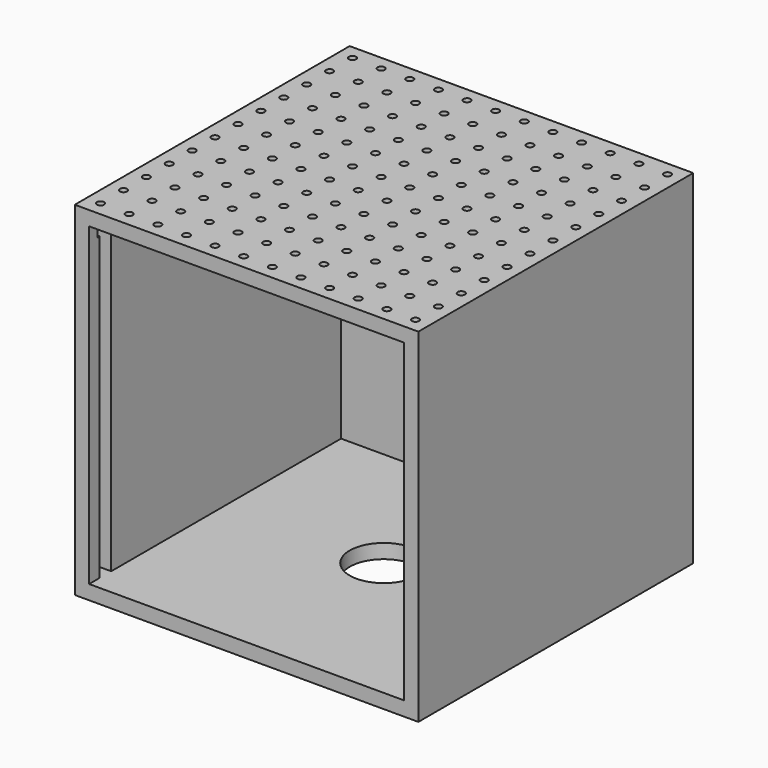
from build123d import *

# Parameters (mm, degrees)
F0_W     = 304.8
F0_H     = 304.8
F1_DEPTH = 304.8
F2_W     = 279.4
F2_H     = 279.4
F3_DEPTH = 279.4
F4_W     = 12.7
F4_H     = 279.4
F5_DEPTH = 93.45905
F6_R     = 3.175
F7_DEPTH = 25.4
F8_R     = 30.1625
F9_DEPTH = 25.4


with BuildPart() as f1:
    # F0 (on Front) → F1 (new body)
    with BuildSketch(Plane.XZ):
        Rectangle(F0_W, F0_H)
    extrude(amount=-F1_DEPTH)

    # F2 (on face) → F3 (cut)
    with BuildSketch(Plane.XZ):
        Rectangle(F2_W, F2_H)
    extrude(amount=-F3_DEPTH, mode=Mode.SUBTRACT)

    # F4 (on face) → F5 (cut)
    with BuildSketch(Plane(origin=(-152.4, 0, 0), x_dir=(0, -1, 0), z_dir=(-1, 0, 0))):
        with Locations((-18.148713, 0)):
            Rectangle(F4_W, F4_H)
    extrude(amount=-F5_DEPTH, mode=Mode.SUBTRACT)

    # F6 (on face) → F7 (cut)
    with BuildSketch(Plane.XY.offset(152.4)):
        with Locations((-139.7, 292.1)):
            Circle(F6_R)
        with Locations((-139.7, 266.7)):
            Circle(F6_R)
        with Locations((-139.7, 241.3)):
            Circle(F6_R)
        with Locations((-139.7, 215.9)):
            Circle(F6_R)
        with Locations((-139.7, 190.5)):
            Circle(F6_R)
        with Locations((-139.7, 165.1)):
            Circle(F6_R)
        with Locations((-139.7, 139.7)):
            Circle(F6_R)
        with Locations((-139.7, 114.3)):
            Circle(F6_R)
        with Locations((-139.7, 88.9)):
            Circle(F6_R)
        with Locations((-139.7, 63.5)):
            Circle(F6_R)
        with Locations((-139.7, 38.1)):
            Circle(F6_R)
        with Locations((-139.7, 12.7)):
            Circle(F6_R)
        with Locations((-114.3, 292.1)):
            Circle(F6_R)
        with Locations((-114.3, 266.7)):
            Circle(F6_R)
        with Locations((-114.3, 241.3)):
            Circle(F6_R)
        with Locations((-114.3, 215.9)):
            Circle(F6_R)
        with Locations((-114.3, 190.5)):
            Circle(F6_R)
        with Locations((-114.3, 165.1)):
            Circle(F6_R)
        with Locations((-114.3, 139.7)):
            Circle(F6_R)
        with Locations((-114.3, 114.3)):
            Circle(F6_R)
        with Locations((-114.3, 88.9)):
            Circle(F6_R)
        with Locations((-114.3, 63.5)):
            Circle(F6_R)
        with Locations((-114.3, 38.1)):
            Circle(F6_R)
        with Locations((-114.3, 12.7)):
            Circle(F6_R)
        with Locations((-88.9, 292.1)):
            Circle(F6_R)
        with Locations((-88.9, 266.7)):
            Circle(F6_R)
        with Locations((-88.9, 241.3)):
            Circle(F6_R)
        with Locations((-88.9, 215.9)):
            Circle(F6_R)
        with Locations((-88.9, 190.5)):
            Circle(F6_R)
        with Locations((-88.9, 165.1)):
            Circle(F6_R)
        with Locations((-88.9, 139.7)):
            Circle(F6_R)
        with Locations((-88.9, 114.3)):
            Circle(F6_R)
        with Locations((-88.9, 88.9)):
            Circle(F6_R)
        with Locations((-88.9, 63.5)):
            Circle(F6_R)
        with Locations((-88.9, 38.1)):
            Circle(F6_R)
        with Locations((-88.9, 12.7)):
            Circle(F6_R)
        with Locations((-63.5, 292.1)):
            Circle(F6_R)
        with Locations((-63.5, 266.7)):
            Circle(F6_R)
        with Locations((-63.5, 241.3)):
            Circle(F6_R)
        with Locations((-63.5, 215.9)):
            Circle(F6_R)
        with Locations((-63.5, 190.5)):
            Circle(F6_R)
        with Locations((-63.5, 165.1)):
            Circle(F6_R)
        with Locations((-63.5, 139.7)):
            Circle(F6_R)
        with Locations((-63.5, 114.3)):
            Circle(F6_R)
        with Locations((-63.5, 88.9)):
            Circle(F6_R)
        with Locations((-63.5, 63.5)):
            Circle(F6_R)
        with Locations((-63.5, 38.1)):
            Circle(F6_R)
        with Locations((-63.5, 12.7)):
            Circle(F6_R)
        with Locations((-38.1, 292.1)):
            Circle(F6_R)
        with Locations((-38.1, 266.7)):
            Circle(F6_R)
        with Locations((-38.1, 241.3)):
            Circle(F6_R)
        with Locations((-38.1, 215.9)):
            Circle(F6_R)
        with Locations((-38.1, 190.5)):
            Circle(F6_R)
        with Locations((-38.1, 165.1)):
            Circle(F6_R)
        with Locations((-38.1, 139.7)):
            Circle(F6_R)
        with Locations((-38.1, 114.3)):
            Circle(F6_R)
        with Locations((-38.1, 88.9)):
            Circle(F6_R)
        with Locations((-38.1, 63.5)):
            Circle(F6_R)
        with Locations((-38.1, 38.1)):
            Circle(F6_R)
        with Locations((-38.1, 12.7)):
            Circle(F6_R)
        with Locations((-12.7, 292.1)):
            Circle(F6_R)
        with Locations((-12.7, 266.7)):
            Circle(F6_R)
        with Locations((-12.7, 241.3)):
            Circle(F6_R)
        with Locations((-12.7, 215.9)):
            Circle(F6_R)
        with Locations((-12.7, 190.5)):
            Circle(F6_R)
        with Locations((-12.7, 165.1)):
            Circle(F6_R)
        with Locations((-12.7, 139.7)):
            Circle(F6_R)
        with Locations((-12.7, 114.3)):
            Circle(F6_R)
        with Locations((-12.7, 88.9)):
            Circle(F6_R)
        with Locations((-12.7, 63.5)):
            Circle(F6_R)
        with Locations((-12.7, 38.1)):
            Circle(F6_R)
        with Locations((-12.7, 12.7)):
            Circle(F6_R)
        with Locations((12.7, 292.1)):
            Circle(F6_R)
        with Locations((12.7, 266.7)):
            Circle(F6_R)
        with Locations((12.7, 241.3)):
            Circle(F6_R)
        with Locations((12.7, 215.9)):
            Circle(F6_R)
        with Locations((12.7, 190.5)):
            Circle(F6_R)
        with Locations((12.7, 165.1)):
            Circle(F6_R)
        with Locations((12.7, 139.7)):
            Circle(F6_R)
        with Locations((12.7, 114.3)):
            Circle(F6_R)
        with Locations((12.7, 88.9)):
            Circle(F6_R)
        with Locations((12.7, 63.5)):
            Circle(F6_R)
        with Locations((12.7, 38.1)):
            Circle(F6_R)
        with Locations((12.7, 12.7)):
            Circle(F6_R)
        with Locations((38.1, 292.1)):
            Circle(F6_R)
        with Locations((38.1, 266.7)):
            Circle(F6_R)
        with Locations((38.1, 241.3)):
            Circle(F6_R)
        with Locations((38.1, 215.9)):
            Circle(F6_R)
        with Locations((38.1, 190.5)):
            Circle(F6_R)
        with Locations((38.1, 165.1)):
            Circle(F6_R)
        with Locations((38.1, 139.7)):
            Circle(F6_R)
        with Locations((38.1, 114.3)):
            Circle(F6_R)
        with Locations((38.1, 88.9)):
            Circle(F6_R)
        with Locations((38.1, 63.5)):
            Circle(F6_R)
        with Locations((38.1, 38.1)):
            Circle(F6_R)
        with Locations((38.1, 12.7)):
            Circle(F6_R)
        with Locations((63.5, 292.1)):
            Circle(F6_R)
        with Locations((63.5, 266.7)):
            Circle(F6_R)
        with Locations((63.5, 241.3)):
            Circle(F6_R)
        with Locations((63.5, 215.9)):
            Circle(F6_R)
        with Locations((63.5, 190.5)):
            Circle(F6_R)
        with Locations((63.5, 165.1)):
            Circle(F6_R)
        with Locations((63.5, 139.7)):
            Circle(F6_R)
        with Locations((63.5, 114.3)):
            Circle(F6_R)
        with Locations((63.5, 88.9)):
            Circle(F6_R)
        with Locations((63.5, 63.5)):
            Circle(F6_R)
        with Locations((63.5, 38.1)):
            Circle(F6_R)
        with Locations((63.5, 12.7)):
            Circle(F6_R)
        with Locations((88.9, 292.1)):
            Circle(F6_R)
        with Locations((88.9, 266.7)):
            Circle(F6_R)
        with Locations((88.9, 241.3)):
            Circle(F6_R)
        with Locations((88.9, 215.9)):
            Circle(F6_R)
        with Locations((88.9, 190.5)):
            Circle(F6_R)
        with Locations((88.9, 165.1)):
            Circle(F6_R)
        with Locations((88.9, 139.7)):
            Circle(F6_R)
        with Locations((88.9, 114.3)):
            Circle(F6_R)
        with Locations((88.9, 88.9)):
            Circle(F6_R)
        with Locations((88.9, 63.5)):
            Circle(F6_R)
        with Locations((88.9, 38.1)):
            Circle(F6_R)
        with Locations((88.9, 12.7)):
            Circle(F6_R)
        with Locations((114.3, 292.1)):
            Circle(F6_R)
        with Locations((114.3, 266.7)):
            Circle(F6_R)
        with Locations((114.3, 241.3)):
            Circle(F6_R)
        with Locations((114.3, 215.9)):
            Circle(F6_R)
        with Locations((114.3, 190.5)):
            Circle(F6_R)
        with Locations((114.3, 165.1)):
            Circle(F6_R)
        with Locations((114.3, 139.7)):
            Circle(F6_R)
        with Locations((114.3, 114.3)):
            Circle(F6_R)
        with Locations((114.3, 88.9)):
            Circle(F6_R)
        with Locations((114.3, 63.5)):
            Circle(F6_R)
        with Locations((114.3, 38.1)):
            Circle(F6_R)
        with Locations((114.3, 12.7)):
            Circle(F6_R)
        with Locations((139.7, 292.1)):
            Circle(F6_R)
        with Locations((139.7, 266.7)):
            Circle(F6_R)
        with Locations((139.7, 241.3)):
            Circle(F6_R)
        with Locations((139.7, 215.9)):
            Circle(F6_R)
        with Locations((139.7, 190.5)):
            Circle(F6_R)
        with Locations((139.7, 165.1)):
            Circle(F6_R)
        with Locations((139.7, 139.7)):
            Circle(F6_R)
        with Locations((139.7, 114.3)):
            Circle(F6_R)
        with Locations((139.7, 88.9)):
            Circle(F6_R)
        with Locations((139.7, 63.5)):
            Circle(F6_R)
        with Locations((139.7, 38.1)):
            Circle(F6_R)
        with Locations((139.7, 12.7)):
            Circle(F6_R)
    extrude(amount=-F7_DEPTH, mode=Mode.SUBTRACT)

    # F8 (on face) → F9 (cut)
    with BuildSketch(Plane(origin=(0, 0, -152.4), x_dir=(1, 0, 0), z_dir=(0, 0, -1))):
        with Locations((0, -152.120709)):
            Circle(F8_R)
    extrude(amount=-F9_DEPTH, mode=Mode.SUBTRACT)


solid = f1.part
